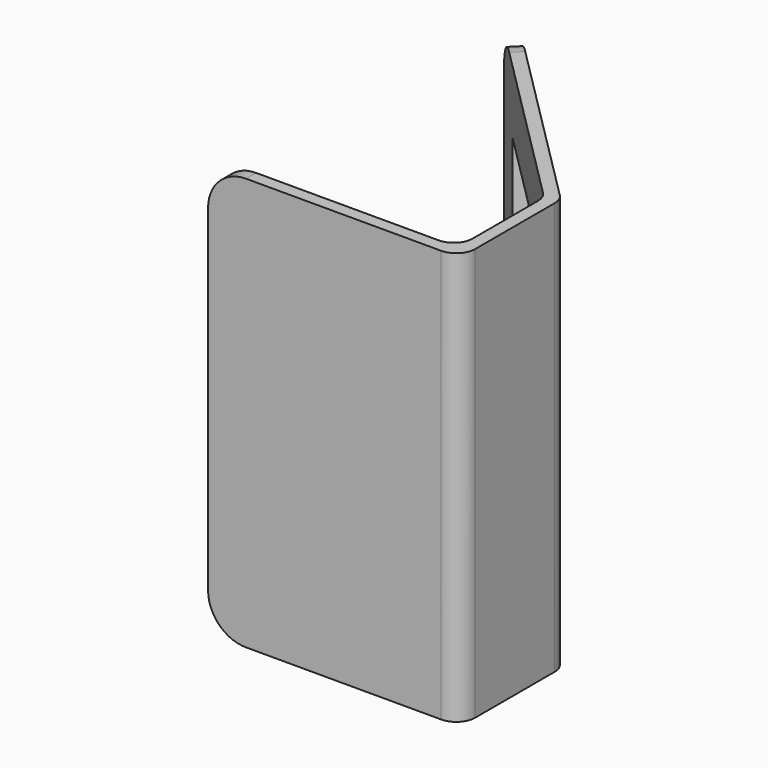
from build123d import *

# Parameters (mm, degrees)
F1_DEPTH = 65.5
F2_W     = 26.5
F2_H     = 45.5
F3_DEPTH = 5
F4_R     = 6
F5_R     = 3


with BuildPart() as f1:
    # F0 (on Top) → F1 (new body)
    with BuildSketch(Plane.XY):
        Polygon((0, 2), (0, 0), (40, 0), (40, 20), (7.473088, 52.526912), (6.058875, 51.112698), (38, 19.171573), (38, 2), align=None)
    extrude(amount=F1_DEPTH)

    # F2 (on face) → F3 (cut)
    with BuildSketch(Plane(origin=(30, 30, 0), x_dir=(-0.707107, 0.707107, 0), z_dir=(0.707107, 0.707107, 0))):
        with Locations((9.107864, 32.75)):
            Rectangle(F2_W, F2_H)
    extrude(amount=-F3_DEPTH, mode=Mode.SUBTRACT)

    # F4
    f4_edges = [f1.edges().sort_by_distance(p)[0] for p in [
        (6.765981, 51.819805, 65.5),
        (6.765981, 51.819805, 0),
        (0, 1, 0),
        (0, 1, 65.5),
    ]]
    fillet(f4_edges, radius=F4_R)

    # F5
    f5_edges = [f1.edges().sort_by_distance(p)[0] for p in [
        (40, 20, 32.75),
        (38, 19.171573, 32.75),
        (38, 2, 32.75),
        (40, 0, 32.75),
    ]]
    fillet(f5_edges, radius=F5_R)


solid = f1.part
